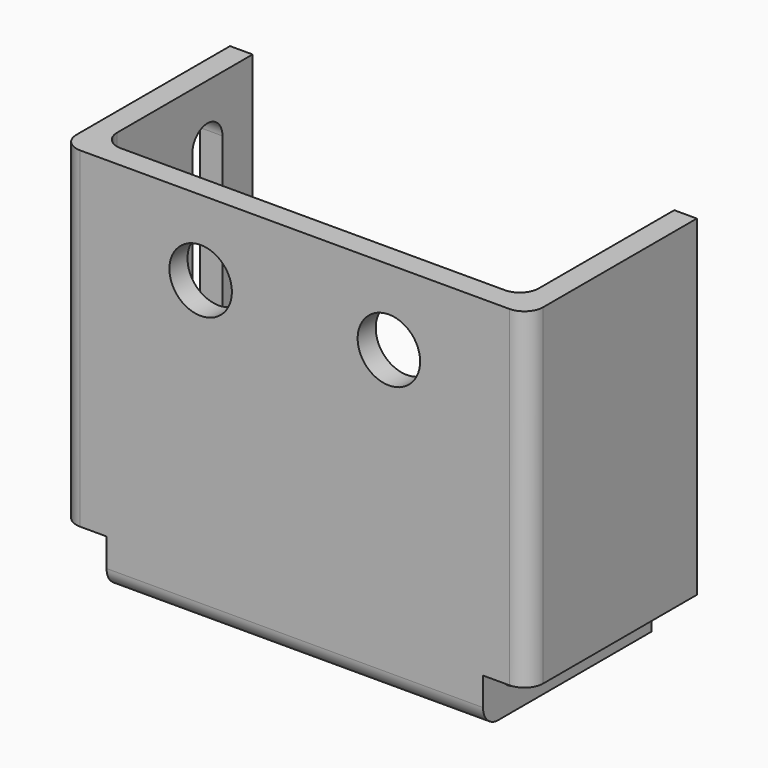
from build123d import *

# Parameters (mm, degrees)
F0_R     = 4.2164
F1_DEPTH = 3.048
F3_W     = 25.4
F3_H     = 44.704
F5_DEPTH = 3.048
F4_W     = 50.8
F4_H     = 25.4
F6_DEPTH = 3.048
F2_W     = 25.4
F2_H     = 44.704
F7_DEPTH = 3.048
F8_R     = 2.54


with BuildPart() as f1:
    # F0 (on Front) → F1 (new body)
    with BuildSketch(Plane.XZ):
        Polygon((29.872065, 25.170984), (-33.119935, 25.170984), (-33.119935, -19.533016), (-27.023935, -19.533016), (-27.023935, -25.878732), (23.776065, -25.878732), (23.776065, -19.533016), (29.872065, -19.533016), align=None)
        with Locations((-14.323935, 15.010984)):
            Circle(F0_R, mode=Mode.SUBTRACT)
        with Locations((11.076065, 15.010984)):
            Circle(F0_R, mode=Mode.SUBTRACT)
    extrude(amount=F1_DEPTH)

    # F3 (on face) → F5 (join)
    with BuildSketch(Plane(origin=(-33.119935, 0, 0), x_dir=(0, -1, 0), z_dir=(-1, 0, 0))):
        with Locations((-12.7, 2.818984)):
            Rectangle(F3_W, F3_H)
        with BuildLine():
            Line((-20.32, -11.913016), (-20.32, 17.550984))
            ThreePointArc((-20.32, 17.550984), (-17.78, 20.090984), (-15.24, 17.550984))
            Line((-15.24, 17.550984), (-15.24, -11.913016))
            ThreePointArc((-15.24, -11.913016), (-17.78, -14.453016), (-20.32, -11.913016))
        make_face(mode=Mode.SUBTRACT)
    extrude(amount=-F5_DEPTH)

    # F4 (on face) → F6 (join)
    with BuildSketch(Plane(origin=(0, 0, -25.878732), x_dir=(1, 0, 0), z_dir=(0, 0, -1))):
        with Locations((-1.623935, -12.7)):
            Rectangle(F4_W, F4_H)
        with BuildLine():
            ThreePointArc((-19.403935, -21.59), (-21.943935, -19.05), (-19.403935, -16.51))
            Line((-19.403935, -16.51), (16.156065, -16.51))
            ThreePointArc((16.156065, -16.51), (18.696065, -19.05), (16.156065, -21.59))
            Line((16.156065, -21.59), (-19.403935, -21.59))
        make_face(mode=Mode.SUBTRACT)
    extrude(amount=-F6_DEPTH)

    # F2 (on face) → F7 (join)
    with BuildSketch(Plane.YZ.offset(29.872065)):
        with Locations((12.7, 2.818984)):
            Rectangle(F2_W, F2_H)
    extrude(amount=-F7_DEPTH)

    # F8
    f8_edges = [f1.edges().sort_by_distance(p)[0] for p in [
        (-33.119935, -3.048, 2.818984),
        (-30.071935, 0, 2.818984),
        (29.872065, -3.048, 2.818984),
        (26.824065, 0, 2.818984),
        (-1.623935, 0, -22.830732),
        (-1.623935, -3.048, -25.878732),
    ]]
    fillet(f8_edges, radius=F8_R)


solid = f1.part
